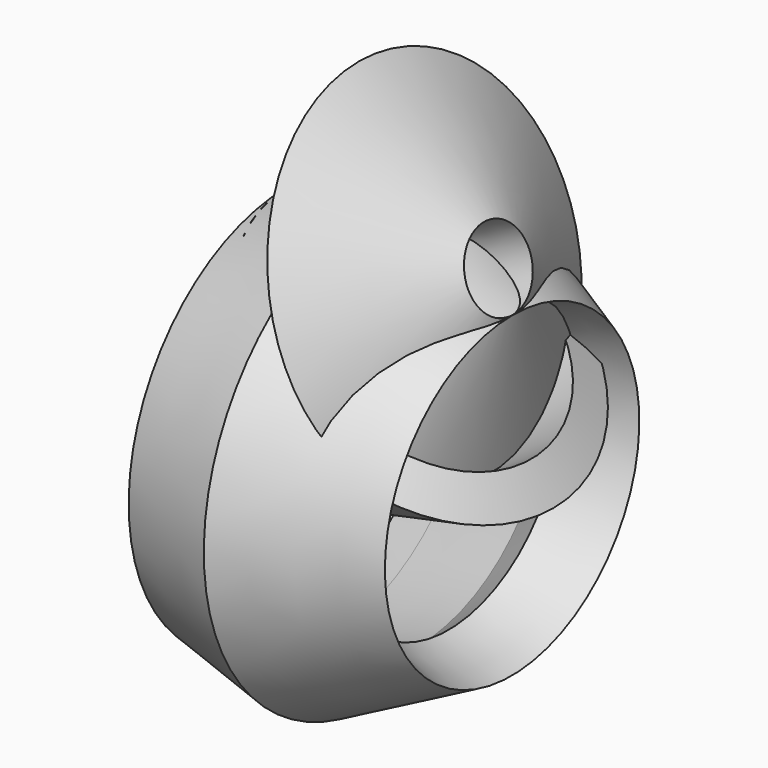
from build123d import *


with BuildPart() as f1:
    # F0 (on Front) → F1 (revolve)
    with BuildSketch(Plane.XZ):
        Polygon((-38.552307, 54.258808), (8.017262, 41.772763), (23.702534, 29.128414), (56.257818, 39.123457), (-9.99504, 73.106609), (-59.684686, 59.68469), align=None)
    revolve(axis=Axis((7.56768, 0, -42.693114), (0.999993, 0, -0.003861)))


with BuildPart() as f2:
    # F0 (on Front) → F2 (revolve)
    with BuildSketch(Plane.XZ):
        Polygon((56.257818, 39.123457), (23.702534, 29.128414), (44.549342, -42.835899), align=None)
    revolve(axis=Axis((-15.981456, 0, 32.309291), (-0.930284, 0, -0.366841)))


with BuildPart() as f3:
    # F0 (on Front) → F3 (revolve)
    with BuildSketch(Plane.XZ):
        Polygon((-59.684686, 59.68469), (-59.684686, -24.559248), (-38.552307, 54.258808), align=None)
    revolve(axis=Axis((-2.855725, 0, -6.710958), (0.595381, 0, 0.803444)))


solid = Compound([f1.part, f2.part, f3.part])
